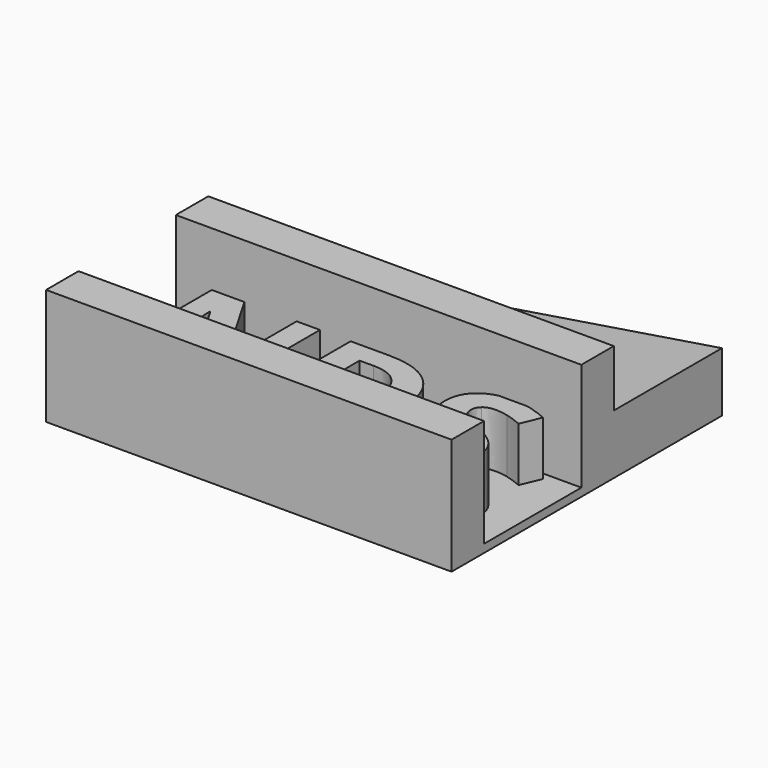
from build123d import *

# Parameters (mm, degrees)
F0_W     = 30
F0_H     = 10
F0_H_2   = 15
F1_DEPTH = 0.6
F2_W     = 30
F2_H     = 3
F3_DEPTH = 8
F5_DEPTH = 10
F7_DEPTH = 4


with BuildPart() as f1:
    # F0 (on Top) → F1 (new body)
    with BuildSketch(Plane.XY):
        with Locations((-15, 20)):
            Rectangle(F0_W, F0_H)
        with Locations((-15, 7.5)):
            Rectangle(F0_W, F0_H_2)
    extrude(amount=F1_DEPTH)

    # F2 (on face) → F3 (join)
    with BuildSketch(Plane.XY.offset(0.6)):
        with Locations((-15, 13.5)):
            Rectangle(F2_W, F2_H)
        with Locations((-15, 1.5)):
            Rectangle(F2_W, F2_H)
    extrude(amount=F3_DEPTH)

    # F4 (on face) → F5 (join)
    with BuildSketch(Plane(origin=(0, 15, 0), x_dir=(-1, 0, 0), z_dir=(0, 1, 0))):
        Polygon((24, 0.6), (0, 4.4), (0, 0.6), align=None)
    extrude(amount=F5_DEPTH)

    # F6 (on face) → F7 (join)
    with BuildSketch(Plane.XY.offset(0.6)):
        Polygon((-21.7479817708, 2.95), (-19.3169704861, 2.95), (-19.3169704861, 3), (-21.7767433449, 3), align=None)
        with BuildLine():
            Line((-17.0459201389, 11.9729817708), (-17.0459201389, 3))
            Line((-17.0459201389, 3), (-13.5546069033, 3))
            add(Edge.make_bspline(
                [(-10.8281792535, 4.1348958333), (-11.8363616657, 3.1934025301), (-13.5546069033, 3)],
                knots=[0, 0, 0, 0.7945789636, 0.7945789636, 0.7945789636], degree=2))
            add(Edge.make_bspline(
                [(-9.5593532986, 7.5473958333), (-9.5593532986, 5.3197916667), (-10.8281792535, 4.1348958333)],
                knots=[0, 0, 0, 1, 1, 1], degree=2))
            add(Edge.make_bspline(
                [(-10.7817708333, 10.8068467882), (-9.5593532986, 9.6407118056), (-9.5593532986, 7.5473958333)],
                knots=[0, 0, 0, 1, 1, 1], degree=2))
            add(Edge.make_bspline(
                [(-14.2140190972, 11.9729817708), (-12.0041883681, 11.9729817708), (-10.7817708333, 10.8068467882)],
                knots=[0, 0, 0, 1, 1, 1], degree=2))
            Line((-14.2140190972, 11.9729817708), (-17.0459201389, 11.9729817708))
        make_face()
        with BuildLine():
            add(Edge.make_bspline(
                [(-11.5480034722, 7.4980251736), (-11.5480034722, 10.4049696181), (-14.1152777778, 10.4049696181)],
                knots=[0, 0, 0, 1, 1, 1], degree=2))
            add(Edge.make_bspline(
                [(-14.3127604167, 4.5298611111), (-11.5480034722, 4.5298611111), (-11.5480034722, 7.4980251736)],
                knots=[0, 0, 0, 1, 1, 1], degree=2))
            Line((-14.3127604167, 4.5298611111), (-15.1323133681, 4.5298611111))
            Line((-15.1323133681, 4.5298611111), (-15.1323133681, 10.4049696181))
            Line((-15.1323133681, 10.4049696181), (-14.1152777778, 10.4049696181))
        make_face(mode=Mode.SUBTRACT)
        with BuildLine():
            add(Edge.make_bspline(
                [(-7.2167314747, 3), (-7.7620891499, 3.1339116551), (-8.2441189236, 3.3706380208)],
                knots=[0.5656812019, 0.5656812019, 0.5656812019, 1, 1, 1], degree=2))
            Line((-7.2167314747, 3), (-4.2997672598, 3))
            add(Edge.make_bspline(
                [(-3.2428710938, 3.5296115451), (-3.6847580589, 3.176002784), (-4.2997672598, 3)],
                knots=[0, 0, 0, 0.5022669023, 0.5022669023, 0.5022669023], degree=2))
            add(Edge.make_bspline(
                [(-2.3630859375, 5.4560546875), (-2.3630859375, 4.2336371528), (-3.2428710938, 3.5296115451)],
                knots=[0, 0, 0, 1, 1, 1], degree=2))
            add(Edge.make_bspline(
                [(-2.8321072049, 6.9460611979), (-2.3630859375, 6.3388020833), (-2.3630859375, 5.4560546875)],
                knots=[0, 0, 0, 1, 1, 1], degree=2))
            add(Edge.make_bspline(
                [(-4.5669921875, 8.1595920139), (-3.3011284722, 7.5533203125), (-2.8321072049, 6.9460611979)],
                knots=[0, 0, 0, 1, 1, 1], degree=2))
            add(Edge.make_bspline(
                [(-5.7785481771, 8.7915364583), (-5.5228081597, 8.6157769097), (-4.5669921875, 8.1595920139)],
                knots=[0, 0, 0, 1, 1, 1], degree=2))
            add(Edge.make_bspline(
                [(-6.1517903646, 9.1558919271), (-6.0342881944, 8.9672960069), (-5.7785481771, 8.7915364583)],
                knots=[0, 0, 0, 1, 1, 1], degree=2))
            add(Edge.make_bspline(
                [(-6.2692925347, 9.597265625), (-6.2692925347, 9.3444878472), (-6.1517903646, 9.1558919271)],
                knots=[0, 0, 0, 1, 1, 1], degree=2))
            add(Edge.make_bspline(
                [(-5.9789930556, 10.2568576389), (-6.2692925347, 10.0040798611), (-6.2692925347, 9.597265625)],
                knots=[0, 0, 0, 1, 1, 1], degree=2))
            add(Edge.make_bspline(
                [(-5.1456163194, 10.5096354167), (-5.6886935764, 10.5096354167), (-5.9789930556, 10.2568576389)],
                knots=[0, 0, 0, 1, 1, 1], degree=2))
            add(Edge.make_bspline(
                [(-4.2174479167, 10.3921332465), (-4.6894314236, 10.5096354167), (-5.1456163194, 10.5096354167)],
                knots=[0, 0, 0, 1, 1, 1], degree=2))
            add(Edge.make_bspline(
                [(-3.0226779514, 9.9784071181), (-3.7454644097, 10.2746310764), (-4.2174479167, 10.3921332465)],
                knots=[0, 0, 0, 1, 1, 1], degree=2))
            Line((-3.0226779514, 9.9784071181), (-2.4065321181, 11.4674262153))
            add(Edge.make_bspline(
                [(-3.7425021701, 11.9354600694), (-3.1036458333, 11.7695746528), (-2.4065321181, 11.4674262153)],
                knots=[0, 0, 0, 1, 1, 1], degree=2))
            add(Edge.make_bspline(
                [(-4.024584157, 12), (-3.8820128143, 11.971685399), (-3.7425021701, 11.9354600694)],
                knots=[0.781624387, 0.781624387, 0.781624387, 1, 1, 1], degree=2))
            Line((-4.024584157, 12), (-6.0945606148, 12))
            add(Edge.make_bspline(
                [(-7.3277994792, 11.4170681424), (-6.8285068793, 11.8380046043), (-6.0945606148, 12)],
                knots=[0, 0, 0, 0.6151547553, 0.6151547553, 0.6151547553], degree=2))
            add(Edge.make_bspline(
                [(-8.139453125, 9.5340711806), (-8.139453125, 10.7327907986), (-7.3277994792, 11.4170681424)],
                knots=[0, 0, 0, 1, 1, 1], degree=2))
            add(Edge.make_bspline(
                [(-7.8925998264, 8.42421875), (-8.139453125, 8.9001519097), (-8.139453125, 9.5340711806)],
                knots=[0, 0, 0, 1, 1, 1], degree=2))
            add(Edge.make_bspline(
                [(-7.2320203993, 7.5908420139), (-7.6457465278, 7.9482855903), (-7.8925998264, 8.42421875)],
                knots=[0, 0, 0, 1, 1, 1], degree=2))
            add(Edge.make_bspline(
                [(-5.9928168403, 6.8443576389), (-6.8182942708, 7.2333984375), (-7.2320203993, 7.5908420139)],
                knots=[0, 0, 0, 1, 1, 1], degree=2))
            add(Edge.make_bspline(
                [(-4.8227322049, 6.2331488715), (-5.1100694444, 6.4237196181), (-5.9928168403, 6.8443576389)],
                knots=[0, 0, 0, 1, 1, 1], degree=2))
            add(Edge.make_bspline(
                [(-4.3872829861, 5.8352213542), (-4.5353949653, 6.042578125), (-4.8227322049, 6.2331488715)],
                knots=[0, 0, 0, 1, 1, 1], degree=2))
            add(Edge.make_bspline(
                [(-4.2391710069, 5.3632378472), (-4.2391710069, 5.6278645833), (-4.3872829861, 5.8352213542)],
                knots=[0, 0, 0, 1, 1, 1], degree=2))
            add(Edge.make_bspline(
                [(-4.5758789063, 4.6473632812), (-4.2391710069, 4.8873046875), (-4.2391710069, 5.3632378472)],
                knots=[0, 0, 0, 1, 1, 1], degree=2))
            add(Edge.make_bspline(
                [(-5.5405815972, 4.407421875), (-4.9125868056, 4.407421875), (-4.5758789063, 4.6473632812)],
                knots=[0, 0, 0, 1, 1, 1], degree=2))
            add(Edge.make_bspline(
                [(-6.6988172743, 4.5733072917), (-6.0658854167, 4.407421875), (-5.5405815972, 4.407421875)],
                knots=[0, 0, 0, 1, 1, 1], degree=2))
            add(Edge.make_bspline(
                [(-8.2441189236, 5.1479817708), (-7.3317491319, 4.7391927083), (-6.6988172743, 4.5733072917)],
                knots=[0, 0, 0, 1, 1, 1], degree=2))
            Line((-8.2441189236, 5.1479817708), (-8.2441189236, 3.3706380208))
        make_face()
        with BuildLine():
            Line((-21.7767433449, 3), (-19.3169704861, 3))
            Line((-19.3169704861, 3), (-19.3169704861, 11.9729817708))
            Line((-19.3169704861, 11.9729817708), (-21.0390190972, 11.9729817708))
            Line((-21.0390190972, 11.9729817708), (-21.0390190972, 7.7014322917))
            add(Edge.make_bspline(
                [(-20.9462022569, 5.2151258681), (-21.0390190972, 6.9746961806), (-21.0390190972, 7.7014322917)],
                knots=[0, 0, 0, 1, 1, 1], degree=2))
            Line((-20.9462022569, 5.2151258681), (-20.9896484375, 5.2151258681))
            Line((-20.9896484375, 5.2151258681), (-24.9077039931, 11.9729817708))
            Line((-24.9077039931, 11.9729817708), (-27.3209418403, 11.9729817708))
            Line((-27.3209418403, 11.9729817708), (-27.3209418403, 3))
            Line((-27.3209418403, 3), (-25.6107421875, 3))
            Line((-25.6107421875, 3), (-25.6107421875, 7.1958767361))
            add(Edge.make_bspline(
                [(-25.7292317708, 9.775), (-25.6107421875, 7.9680338542), (-25.6107421875, 7.1958767361)],
                knots=[0, 0, 0, 1, 1, 1], degree=2))
            Line((-25.7292317708, 9.775), (-25.6739366319, 9.775))
            Line((-25.6739366319, 9.775), (-21.7767433449, 3))
        make_face()
    extrude(amount=F7_DEPTH)


solid = f1.part
